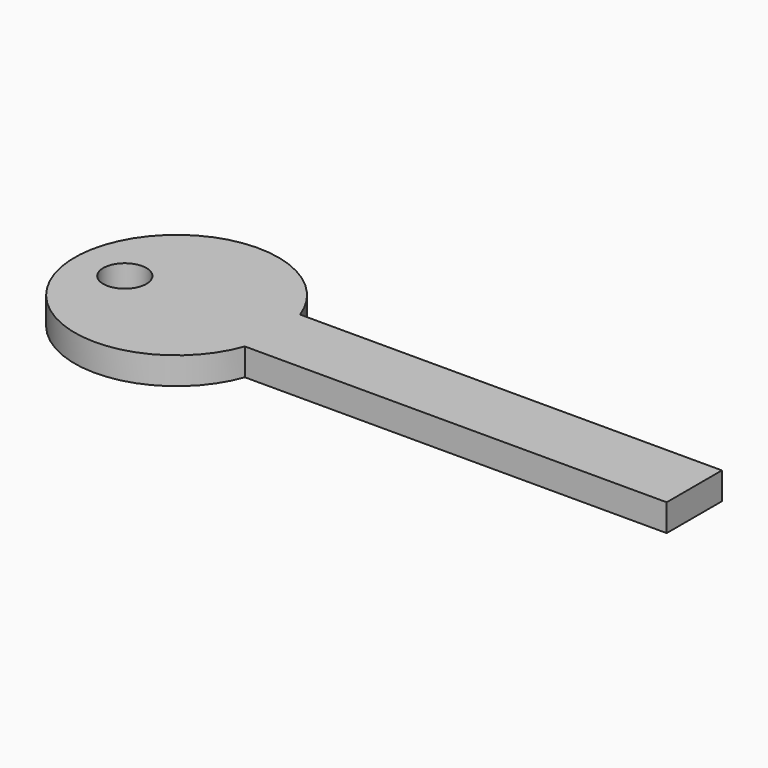
from build123d import *

# Parameters (mm, degrees)
F0_R     = 1.5875
F1_DEPTH = 2


with BuildPart() as f1:
    # F0 (on Top) → F1 (new body)
    with BuildSketch(Plane.XY):
        with BuildLine():
            ThreePointArc((7.0567981408, -2.54), (7.3883687664, -1.2891884936), (7.5, 0))
            ThreePointArc((7.5, 0), (7.3883687664, 1.2891884936), (7.0567981408, 2.54))
            Line((7.0567981408, 2.54), (0, 2.54))
            Line((0, 2.54), (0, -2.54))
            Line((0, -2.54), (7.0567981408, -2.54))
        make_face()
        with BuildLine():
            ThreePointArc((7.0567981408, 2.54), (7.3883687664, 1.2891884936), (7.5, 0))
            ThreePointArc((7.5, 0), (7.3883687664, -1.2891884936), (7.0567981408, -2.54))
            Line((7.0567981408, -2.54), (38.1, -2.54))
            Line((38.1, -2.54), (38.1, 2.54))
            Line((38.1, 2.54), (7.0567981408, 2.54))
        make_face()
        with BuildLine():
            Line((0, 2.54), (7.0567981408, 2.54))
            ThreePointArc((7.0567981408, 2.54), (-7.5, 0), (7.0567981408, -2.54))
            Line((7.0567981408, -2.54), (0, -2.54))
            Line((0, -2.54), (0, 2.54))
        make_face()
        with Locations((-3.81, 0)):
            Circle(F0_R, mode=Mode.SUBTRACT)
    extrude(amount=F1_DEPTH)


solid = f1.part
